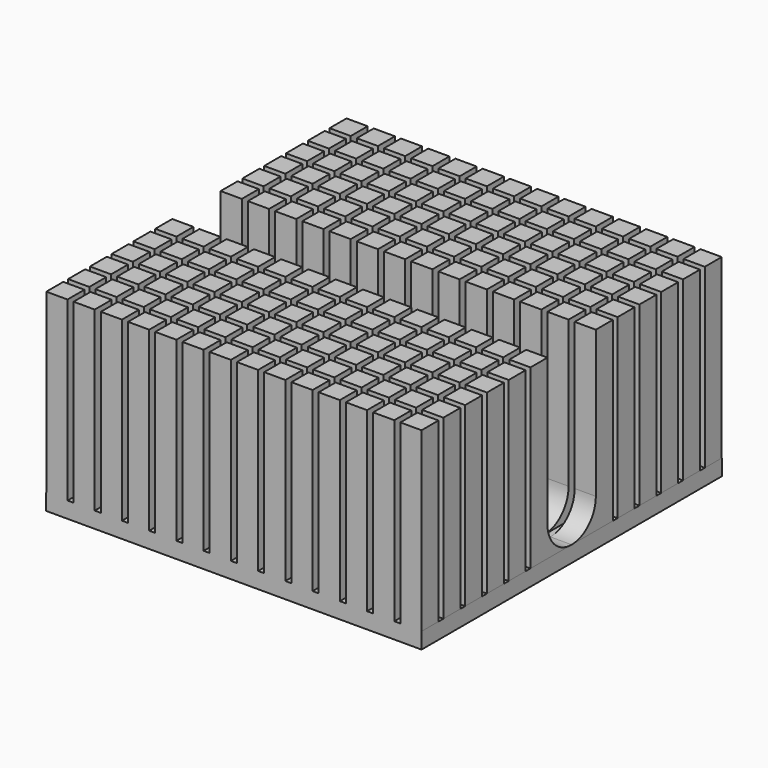
from build123d import *

# Parameters (mm, degrees)
BOX_W                = 35
BOX_H                = 35
BOX_DEPTH            = 1.5
SKETCH001_W          = 1.9755
SKETCH001_H          = 1.9755
PAD_DEPTH            = 18
FILLET008_R          = 2.82
BODY_PLACEMENT_ANGLE = 90


with BuildPart() as part:
    # Box → Box (join)
    with BuildSketch(Plane(origin=(-17.5, -17.5, 0), x_dir=(1, 0, 0), z_dir=(0, 0, 1))):
        with Locations((17.5, 17.5)):
            Rectangle(BOX_W, BOX_H)
    extrude(amount=BOX_DEPTH)

    # Sketch001 → Pad (join)
    with BuildSketch(Plane.XY):
        with Locations((-16.51225, -16.512204)):
            Rectangle(SKETCH001_W, SKETCH001_H)
        with Locations((-16.51225, -13.973504)):
            Rectangle(SKETCH001_W, SKETCH001_H)
        with Locations((-16.51225, -11.434804)):
            Rectangle(SKETCH001_W, SKETCH001_H)
        with Locations((-16.51225, -8.896104)):
            Rectangle(SKETCH001_W, SKETCH001_H)
        with Locations((-16.51225, -6.357404)):
            Rectangle(SKETCH001_W, SKETCH001_H)
        with Locations((-16.51225, -3.818704)):
            Rectangle(SKETCH001_W, SKETCH001_H)
        with Locations((-16.51225, -1.280004)):
            Rectangle(SKETCH001_W, SKETCH001_H)
        with Locations((-16.51225, 1.258696)):
            Rectangle(SKETCH001_W, SKETCH001_H)
        with Locations((-16.51225, 3.797396)):
            Rectangle(SKETCH001_W, SKETCH001_H)
        with Locations((-16.51225, 6.336096)):
            Rectangle(SKETCH001_W, SKETCH001_H)
        with Locations((-16.51225, 8.874796)):
            Rectangle(SKETCH001_W, SKETCH001_H)
        with Locations((-16.51225, 11.413496)):
            Rectangle(SKETCH001_W, SKETCH001_H)
        with Locations((-16.51225, 13.952196)):
            Rectangle(SKETCH001_W, SKETCH001_H)
        with Locations((-16.51225, 16.490896)):
            Rectangle(SKETCH001_W, SKETCH001_H)
        with Locations((-13.97355, -16.512204)):
            Rectangle(SKETCH001_W, SKETCH001_H)
        with Locations((-13.97355, -13.973504)):
            Rectangle(SKETCH001_W, SKETCH001_H)
        with Locations((-13.97355, -11.434804)):
            Rectangle(SKETCH001_W, SKETCH001_H)
        with Locations((-13.97355, -8.896104)):
            Rectangle(SKETCH001_W, SKETCH001_H)
        with Locations((-13.97355, -6.357404)):
            Rectangle(SKETCH001_W, SKETCH001_H)
        with Locations((-13.97355, -3.818704)):
            Rectangle(SKETCH001_W, SKETCH001_H)
        with Locations((-13.97355, -1.280004)):
            Rectangle(SKETCH001_W, SKETCH001_H)
        with Locations((-13.97355, 1.258696)):
            Rectangle(SKETCH001_W, SKETCH001_H)
        with Locations((-13.97355, 3.797396)):
            Rectangle(SKETCH001_W, SKETCH001_H)
        with Locations((-13.97355, 6.336096)):
            Rectangle(SKETCH001_W, SKETCH001_H)
        with Locations((-13.97355, 8.874796)):
            Rectangle(SKETCH001_W, SKETCH001_H)
        with Locations((-13.97355, 11.413496)):
            Rectangle(SKETCH001_W, SKETCH001_H)
        with Locations((-13.97355, 13.952196)):
            Rectangle(SKETCH001_W, SKETCH001_H)
        with Locations((-13.97355, 16.490896)):
            Rectangle(SKETCH001_W, SKETCH001_H)
        with Locations((-11.43485, -16.512204)):
            Rectangle(SKETCH001_W, SKETCH001_H)
        with Locations((-11.43485, -13.973504)):
            Rectangle(SKETCH001_W, SKETCH001_H)
        with Locations((-11.43485, -11.434804)):
            Rectangle(SKETCH001_W, SKETCH001_H)
        with Locations((-11.43485, -8.896104)):
            Rectangle(SKETCH001_W, SKETCH001_H)
        with Locations((-11.43485, -6.357404)):
            Rectangle(SKETCH001_W, SKETCH001_H)
        with Locations((-11.43485, -3.818704)):
            Rectangle(SKETCH001_W, SKETCH001_H)
        with Locations((-11.43485, -1.280004)):
            Rectangle(SKETCH001_W, SKETCH001_H)
        with Locations((-11.43485, 1.258696)):
            Rectangle(SKETCH001_W, SKETCH001_H)
        with Locations((-11.43485, 3.797396)):
            Rectangle(SKETCH001_W, SKETCH001_H)
        with Locations((-11.43485, 6.336096)):
            Rectangle(SKETCH001_W, SKETCH001_H)
        with Locations((-11.43485, 8.874796)):
            Rectangle(SKETCH001_W, SKETCH001_H)
        with Locations((-11.43485, 11.413496)):
            Rectangle(SKETCH001_W, SKETCH001_H)
        with Locations((-11.43485, 13.952196)):
            Rectangle(SKETCH001_W, SKETCH001_H)
        with Locations((-11.43485, 16.490896)):
            Rectangle(SKETCH001_W, SKETCH001_H)
        with Locations((-8.89615, -16.512204)):
            Rectangle(SKETCH001_W, SKETCH001_H)
        with Locations((-8.89615, -13.973504)):
            Rectangle(SKETCH001_W, SKETCH001_H)
        with Locations((-8.89615, -11.434804)):
            Rectangle(SKETCH001_W, SKETCH001_H)
        with Locations((-8.89615, -8.896104)):
            Rectangle(SKETCH001_W, SKETCH001_H)
        with Locations((-8.89615, -6.357404)):
            Rectangle(SKETCH001_W, SKETCH001_H)
        with Locations((-8.89615, -3.818704)):
            Rectangle(SKETCH001_W, SKETCH001_H)
        with Locations((-8.89615, -1.280004)):
            Rectangle(SKETCH001_W, SKETCH001_H)
        with Locations((-8.89615, 1.258696)):
            Rectangle(SKETCH001_W, SKETCH001_H)
        with Locations((-8.89615, 3.797396)):
            Rectangle(SKETCH001_W, SKETCH001_H)
        with Locations((-8.89615, 6.336096)):
            Rectangle(SKETCH001_W, SKETCH001_H)
        with Locations((-8.89615, 8.874796)):
            Rectangle(SKETCH001_W, SKETCH001_H)
        with Locations((-8.89615, 11.413496)):
            Rectangle(SKETCH001_W, SKETCH001_H)
        with Locations((-8.89615, 13.952196)):
            Rectangle(SKETCH001_W, SKETCH001_H)
        with Locations((-8.89615, 16.490896)):
            Rectangle(SKETCH001_W, SKETCH001_H)
        with Locations((-6.35745, -16.512204)):
            Rectangle(SKETCH001_W, SKETCH001_H)
        with Locations((-6.35745, -13.973504)):
            Rectangle(SKETCH001_W, SKETCH001_H)
        with Locations((-6.35745, -11.434804)):
            Rectangle(SKETCH001_W, SKETCH001_H)
        with Locations((-6.35745, -8.896104)):
            Rectangle(SKETCH001_W, SKETCH001_H)
        with Locations((-6.35745, -6.357404)):
            Rectangle(SKETCH001_W, SKETCH001_H)
        with Locations((-6.35745, -3.818704)):
            Rectangle(SKETCH001_W, SKETCH001_H)
        with Locations((-6.35745, -1.280004)):
            Rectangle(SKETCH001_W, SKETCH001_H)
        with Locations((-6.35745, 1.258696)):
            Rectangle(SKETCH001_W, SKETCH001_H)
        with Locations((-6.35745, 3.797396)):
            Rectangle(SKETCH001_W, SKETCH001_H)
        with Locations((-6.35745, 6.336096)):
            Rectangle(SKETCH001_W, SKETCH001_H)
        with Locations((-6.35745, 8.874796)):
            Rectangle(SKETCH001_W, SKETCH001_H)
        with Locations((-6.35745, 11.413496)):
            Rectangle(SKETCH001_W, SKETCH001_H)
        with Locations((-6.35745, 13.952196)):
            Rectangle(SKETCH001_W, SKETCH001_H)
        with Locations((-6.35745, 16.490896)):
            Rectangle(SKETCH001_W, SKETCH001_H)
        with Locations((-3.81875, -16.512204)):
            Rectangle(SKETCH001_W, SKETCH001_H)
        with Locations((-3.81875, -13.973504)):
            Rectangle(SKETCH001_W, SKETCH001_H)
        with Locations((-3.81875, -11.434804)):
            Rectangle(SKETCH001_W, SKETCH001_H)
        with Locations((-3.81875, -8.896104)):
            Rectangle(SKETCH001_W, SKETCH001_H)
        with Locations((-3.81875, -6.357404)):
            Rectangle(SKETCH001_W, SKETCH001_H)
        with Locations((-3.81875, -3.818704)):
            Rectangle(SKETCH001_W, SKETCH001_H)
        with Locations((-3.81875, -1.280004)):
            Rectangle(SKETCH001_W, SKETCH001_H)
        with Locations((-3.81875, 1.258696)):
            Rectangle(SKETCH001_W, SKETCH001_H)
        with Locations((-3.81875, 3.797396)):
            Rectangle(SKETCH001_W, SKETCH001_H)
        with Locations((-3.81875, 6.336096)):
            Rectangle(SKETCH001_W, SKETCH001_H)
        with Locations((-3.81875, 8.874796)):
            Rectangle(SKETCH001_W, SKETCH001_H)
        with Locations((-3.81875, 11.413496)):
            Rectangle(SKETCH001_W, SKETCH001_H)
        with Locations((-3.81875, 13.952196)):
            Rectangle(SKETCH001_W, SKETCH001_H)
        with Locations((-3.81875, 16.490896)):
            Rectangle(SKETCH001_W, SKETCH001_H)
        with Locations((3.79735, -16.512204)):
            Rectangle(SKETCH001_W, SKETCH001_H)
        with Locations((3.79735, -13.973504)):
            Rectangle(SKETCH001_W, SKETCH001_H)
        with Locations((3.79735, -11.434804)):
            Rectangle(SKETCH001_W, SKETCH001_H)
        with Locations((3.79735, -8.896104)):
            Rectangle(SKETCH001_W, SKETCH001_H)
        with Locations((3.79735, -6.357404)):
            Rectangle(SKETCH001_W, SKETCH001_H)
        with Locations((3.79735, -3.818704)):
            Rectangle(SKETCH001_W, SKETCH001_H)
        with Locations((3.79735, -1.280004)):
            Rectangle(SKETCH001_W, SKETCH001_H)
        with Locations((3.79735, 1.258696)):
            Rectangle(SKETCH001_W, SKETCH001_H)
        with Locations((3.79735, 3.797396)):
            Rectangle(SKETCH001_W, SKETCH001_H)
        with Locations((3.79735, 6.336096)):
            Rectangle(SKETCH001_W, SKETCH001_H)
        with Locations((3.79735, 8.874796)):
            Rectangle(SKETCH001_W, SKETCH001_H)
        with Locations((3.79735, 11.413496)):
            Rectangle(SKETCH001_W, SKETCH001_H)
        with Locations((3.79735, 13.952196)):
            Rectangle(SKETCH001_W, SKETCH001_H)
        with Locations((3.79735, 16.490896)):
            Rectangle(SKETCH001_W, SKETCH001_H)
        with Locations((6.33605, -16.512204)):
            Rectangle(SKETCH001_W, SKETCH001_H)
        with Locations((6.33605, -13.973504)):
            Rectangle(SKETCH001_W, SKETCH001_H)
        with Locations((6.33605, -11.434804)):
            Rectangle(SKETCH001_W, SKETCH001_H)
        with Locations((6.33605, -8.896104)):
            Rectangle(SKETCH001_W, SKETCH001_H)
        with Locations((6.33605, -6.357404)):
            Rectangle(SKETCH001_W, SKETCH001_H)
        with Locations((6.33605, -3.818704)):
            Rectangle(SKETCH001_W, SKETCH001_H)
        with Locations((6.33605, -1.280004)):
            Rectangle(SKETCH001_W, SKETCH001_H)
        with Locations((6.33605, 1.258696)):
            Rectangle(SKETCH001_W, SKETCH001_H)
        with Locations((6.33605, 3.797396)):
            Rectangle(SKETCH001_W, SKETCH001_H)
        with Locations((6.33605, 6.336096)):
            Rectangle(SKETCH001_W, SKETCH001_H)
        with Locations((6.33605, 8.874796)):
            Rectangle(SKETCH001_W, SKETCH001_H)
        with Locations((6.33605, 11.413496)):
            Rectangle(SKETCH001_W, SKETCH001_H)
        with Locations((6.33605, 13.952196)):
            Rectangle(SKETCH001_W, SKETCH001_H)
        with Locations((6.33605, 16.490896)):
            Rectangle(SKETCH001_W, SKETCH001_H)
        with Locations((8.87475, -16.512204)):
            Rectangle(SKETCH001_W, SKETCH001_H)
        with Locations((8.87475, -13.973504)):
            Rectangle(SKETCH001_W, SKETCH001_H)
        with Locations((8.87475, -11.434804)):
            Rectangle(SKETCH001_W, SKETCH001_H)
        with Locations((8.87475, -8.896104)):
            Rectangle(SKETCH001_W, SKETCH001_H)
        with Locations((8.87475, -6.357404)):
            Rectangle(SKETCH001_W, SKETCH001_H)
        with Locations((8.87475, -3.818704)):
            Rectangle(SKETCH001_W, SKETCH001_H)
        with Locations((8.87475, -1.280004)):
            Rectangle(SKETCH001_W, SKETCH001_H)
        with Locations((8.87475, 1.258696)):
            Rectangle(SKETCH001_W, SKETCH001_H)
        with Locations((8.87475, 3.797396)):
            Rectangle(SKETCH001_W, SKETCH001_H)
        with Locations((8.87475, 6.336096)):
            Rectangle(SKETCH001_W, SKETCH001_H)
        with Locations((8.87475, 8.874796)):
            Rectangle(SKETCH001_W, SKETCH001_H)
        with Locations((8.87475, 11.413496)):
            Rectangle(SKETCH001_W, SKETCH001_H)
        with Locations((8.87475, 13.952196)):
            Rectangle(SKETCH001_W, SKETCH001_H)
        with Locations((8.87475, 16.490896)):
            Rectangle(SKETCH001_W, SKETCH001_H)
        with Locations((11.41345, -16.512204)):
            Rectangle(SKETCH001_W, SKETCH001_H)
        with Locations((11.41345, -13.973504)):
            Rectangle(SKETCH001_W, SKETCH001_H)
        with Locations((11.41345, -11.434804)):
            Rectangle(SKETCH001_W, SKETCH001_H)
        with Locations((11.41345, -8.896104)):
            Rectangle(SKETCH001_W, SKETCH001_H)
        with Locations((11.41345, -6.357404)):
            Rectangle(SKETCH001_W, SKETCH001_H)
        with Locations((11.41345, -3.818704)):
            Rectangle(SKETCH001_W, SKETCH001_H)
        with Locations((11.41345, -1.280004)):
            Rectangle(SKETCH001_W, SKETCH001_H)
        with Locations((11.41345, 1.258696)):
            Rectangle(SKETCH001_W, SKETCH001_H)
        with Locations((11.41345, 3.797396)):
            Rectangle(SKETCH001_W, SKETCH001_H)
        with Locations((11.41345, 6.336096)):
            Rectangle(SKETCH001_W, SKETCH001_H)
        with Locations((11.41345, 8.874796)):
            Rectangle(SKETCH001_W, SKETCH001_H)
        with Locations((11.41345, 11.413496)):
            Rectangle(SKETCH001_W, SKETCH001_H)
        with Locations((11.41345, 13.952196)):
            Rectangle(SKETCH001_W, SKETCH001_H)
        with Locations((11.41345, 16.490896)):
            Rectangle(SKETCH001_W, SKETCH001_H)
        with Locations((13.95215, -16.512204)):
            Rectangle(SKETCH001_W, SKETCH001_H)
        with Locations((13.95215, -13.973504)):
            Rectangle(SKETCH001_W, SKETCH001_H)
        with Locations((13.95215, -11.434804)):
            Rectangle(SKETCH001_W, SKETCH001_H)
        with Locations((13.95215, -8.896104)):
            Rectangle(SKETCH001_W, SKETCH001_H)
        with Locations((13.95215, -6.357404)):
            Rectangle(SKETCH001_W, SKETCH001_H)
        with Locations((13.95215, -3.818704)):
            Rectangle(SKETCH001_W, SKETCH001_H)
        with Locations((13.95215, -1.280004)):
            Rectangle(SKETCH001_W, SKETCH001_H)
        with Locations((13.95215, 1.258696)):
            Rectangle(SKETCH001_W, SKETCH001_H)
        with Locations((13.95215, 3.797396)):
            Rectangle(SKETCH001_W, SKETCH001_H)
        with Locations((13.95215, 6.336096)):
            Rectangle(SKETCH001_W, SKETCH001_H)
        with Locations((13.95215, 8.874796)):
            Rectangle(SKETCH001_W, SKETCH001_H)
        with Locations((13.95215, 11.413496)):
            Rectangle(SKETCH001_W, SKETCH001_H)
        with Locations((13.95215, 13.952196)):
            Rectangle(SKETCH001_W, SKETCH001_H)
        with Locations((13.95215, 16.490896)):
            Rectangle(SKETCH001_W, SKETCH001_H)
        with Locations((16.49085, -16.512204)):
            Rectangle(SKETCH001_W, SKETCH001_H)
        with Locations((16.49085, -13.973504)):
            Rectangle(SKETCH001_W, SKETCH001_H)
        with Locations((16.49085, -11.434804)):
            Rectangle(SKETCH001_W, SKETCH001_H)
        with Locations((16.49085, -8.896104)):
            Rectangle(SKETCH001_W, SKETCH001_H)
        with Locations((16.49085, -6.357404)):
            Rectangle(SKETCH001_W, SKETCH001_H)
        with Locations((16.49085, -3.818704)):
            Rectangle(SKETCH001_W, SKETCH001_H)
        with Locations((16.49085, -1.280004)):
            Rectangle(SKETCH001_W, SKETCH001_H)
        with Locations((16.49085, 1.258696)):
            Rectangle(SKETCH001_W, SKETCH001_H)
        with Locations((16.49085, 3.797396)):
            Rectangle(SKETCH001_W, SKETCH001_H)
        with Locations((16.49085, 6.336096)):
            Rectangle(SKETCH001_W, SKETCH001_H)
        with Locations((16.49085, 8.874796)):
            Rectangle(SKETCH001_W, SKETCH001_H)
        with Locations((16.49085, 11.413496)):
            Rectangle(SKETCH001_W, SKETCH001_H)
        with Locations((16.49085, 13.952196)):
            Rectangle(SKETCH001_W, SKETCH001_H)
        with Locations((16.49085, 16.490896)):
            Rectangle(SKETCH001_W, SKETCH001_H)
    extrude(amount=PAD_DEPTH)

    # Fillet008
    fillet008_edges = [part.edges().sort_by_distance(p)[0] for p in [
        (-2.831, -16.512204, 1.5),
        (-2.831, -13.973504, 1.5),
        (-2.831, -11.434804, 1.5),
        (-2.831, -8.896104, 1.5),
        (-2.831, -6.357404, 1.5),
        (-2.831, -3.818704, 1.5),
        (-2.831, -1.280004, 1.5),
        (-2.831, 1.258696, 1.5),
        (-2.831, 3.797396, 1.5),
        (-2.831, 6.336096, 1.5),
        (-2.831, 8.874796, 1.5),
        (-2.831, 11.413496, 1.5),
        (-2.831, 13.952196, 1.5),
        (-2.831, 16.490896, 1.5),
        (2.8096, -16.512204, 1.5),
        (2.8096, -13.973504, 1.5),
        (2.8096, -11.434804, 1.5),
        (2.8096, -8.896104, 1.5),
        (2.8096, -6.357404, 1.5),
        (2.8096, -3.818704, 1.5),
        (2.8096, -1.280004, 1.5),
        (2.8096, 1.258696, 1.5),
        (2.8096, 3.797396, 1.5),
        (2.8096, 6.336096, 1.5),
        (2.8096, 8.874796, 1.5),
        (2.8096, 11.413496, 1.5),
        (2.8096, 13.952196, 1.5),
        (2.8096, 16.490896, 1.5),
    ]]
    fillet(fillet008_edges, radius=FILLET008_R)


with BuildPart() as part_1:
    # Body placement: moved
    add(part.part.moved(Location((0, 0, 0.05))).rotate(Axis((0, 0, 0.05), (0, 0, 1)), BODY_PLACEMENT_ANGLE))


solid = part_1.part
